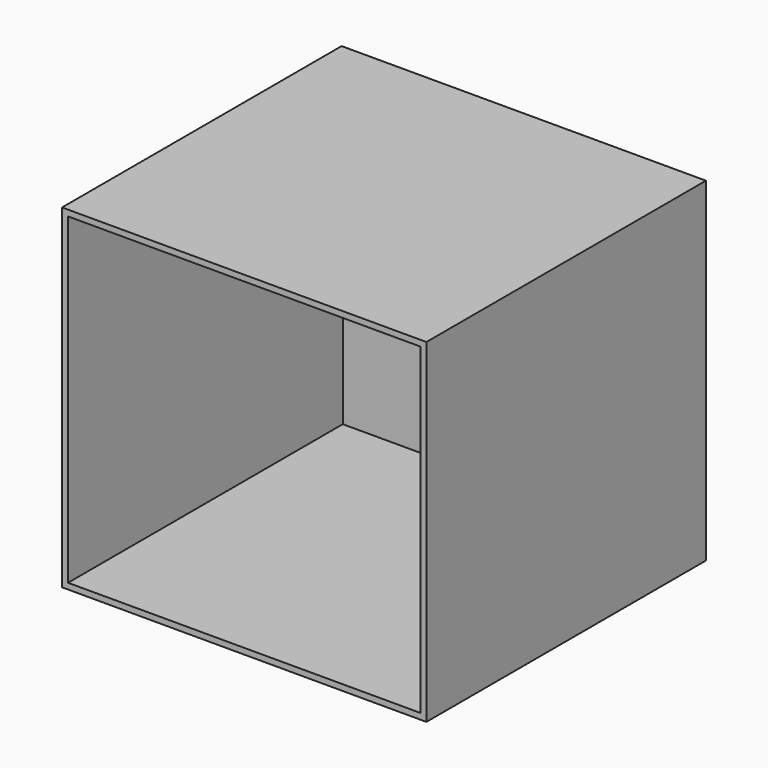
from build123d import *

# Parameters (mm, degrees)
F0_W     = 2997.2
F0_H     = 2921
F1_DEPTH = 2743.2
F2_T     = 50.8


with BuildPart() as f1:
    # F0 (on Top) → F1 (new body)
    with BuildSketch(Plane.XY):
        with Locations((1498.6, 1493.479801953)):
            Rectangle(F0_W, F0_H)
    extrude(amount=F1_DEPTH)

    # F2
    f2_openings = [f1.faces().sort_by_distance(p)[0] for p in [
        (1498.6, 32.979802, 1371.6),
    ]]
    offset(amount=F2_T, openings=f2_openings, kind=Kind.INTERSECTION)


solid = f1.part
